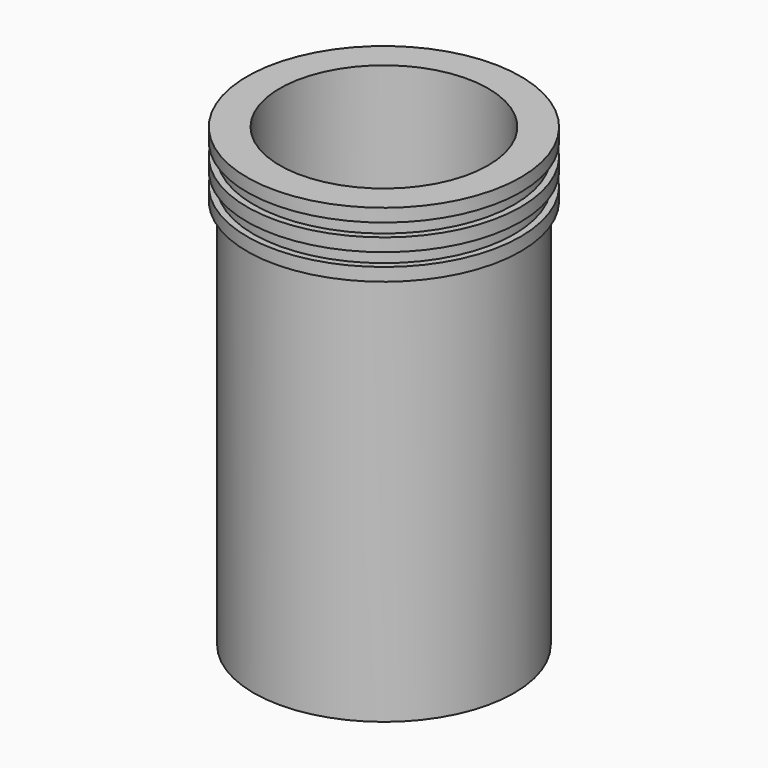
from build123d import *

# Parameters (mm, degrees)
F0_R      = 10
F0_R_2    = 2
F1_DEPTH  = 2
F2_R      = 10
F2_R_2    = 8
F3_DEPTH  = 28
F4_R      = 10.5
F4_R_2    = 8
F5_DEPTH  = 1
F6_R      = 10
F6_R_2    = 8
F7_DEPTH  = 1
F8_R      = 10.5
F8_R_2    = 8
F9_DEPTH  = 1
F10_R     = 10
F10_R_2   = 8
F11_DEPTH = 1
F12_R     = 10.5
F12_R_2   = 8
F13_DEPTH = 1


with BuildPart() as f1:
    # F0 (on Top) → F1 (new body)
    with BuildSketch(Plane.XY):
        Circle(F0_R)
        Circle(F0_R_2, mode=Mode.SUBTRACT)
    extrude(amount=F1_DEPTH)

    # F2 (on face) → F3 (join)
    with BuildSketch(Plane.XY.offset(2)):
        Circle(F2_R)
        Circle(F2_R_2, mode=Mode.SUBTRACT)
    extrude(amount=F3_DEPTH)

    # F4 (on face) → F5 (join)
    with BuildSketch(Plane.XY.offset(30)):
        Circle(F4_R)
        Circle(F4_R_2, mode=Mode.SUBTRACT)
    extrude(amount=F5_DEPTH)

    # F6 (on face) → F7 (join)
    with BuildSketch(Plane.XY.offset(31)):
        Circle(F6_R)
        Circle(F6_R_2, mode=Mode.SUBTRACT)
    extrude(amount=F7_DEPTH)

    # F8 (on face) → F9 (join)
    with BuildSketch(Plane.XY.offset(32)):
        Circle(F8_R)
        Circle(F8_R_2, mode=Mode.SUBTRACT)
    extrude(amount=F9_DEPTH)

    # F10 (on face) → F11 (join)
    with BuildSketch(Plane.XY.offset(33)):
        Circle(F10_R)
        Circle(F10_R_2, mode=Mode.SUBTRACT)
    extrude(amount=F11_DEPTH)

    # F12 (on face) → F13 (join)
    with BuildSketch(Plane.XY.offset(34)):
        Circle(F12_R)
        Circle(F12_R_2, mode=Mode.SUBTRACT)
    extrude(amount=F13_DEPTH)


solid = f1.part
